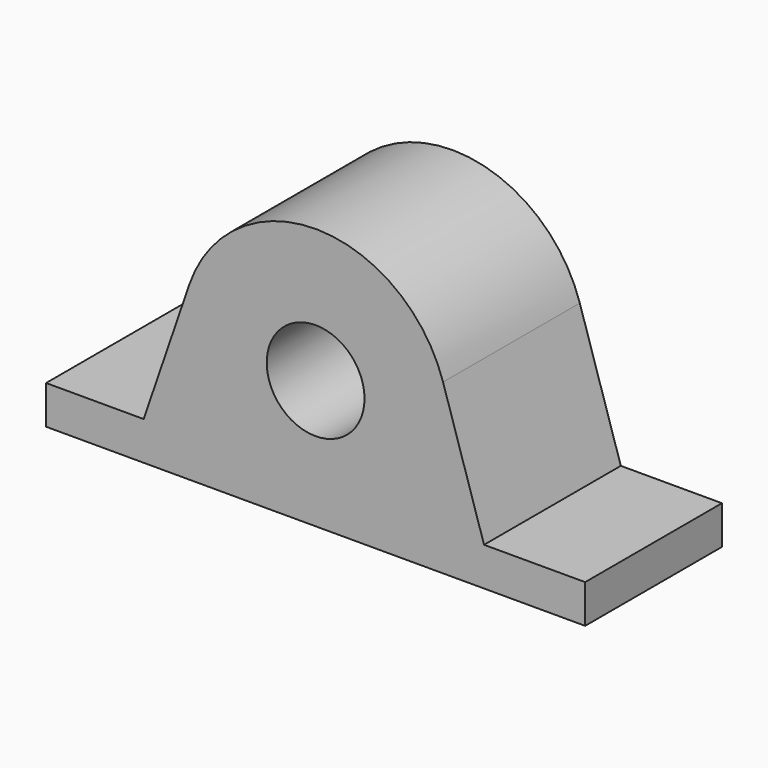
from build123d import *

# Parameters (mm, degrees)
F0_R     = 12.7
F1_DEPTH = 22.2


with BuildPart() as f1:
    # F0 (on Front) → F1 (new body, symmetric)
    with BuildSketch(Plane.XZ):
        with BuildLine():
            Line((-32.8282786005, 11.2425141372), (-44.6578572467, -23.3))
            Line((-44.6578572467, -23.3), (43.7403851906, -23.3))
            Line((43.7403851906, -23.3), (33.0911746492, 10.4433787796))
            ThreePointArc((33.0911746492, 10.4433787796), (0.4206339418, 34.6974504407), (-32.8282786005, 11.2425141372))
        make_face()
        Circle(F0_R, mode=Mode.SUBTRACT)
        Polygon((-70, -23.3), (-70, -33.3), (70, -33.3), (70, -23.3), (43.7403851906, -23.3), (-44.6578572467, -23.3), align=None)
    extrude(amount=F1_DEPTH, both=True)


solid = f1.part
